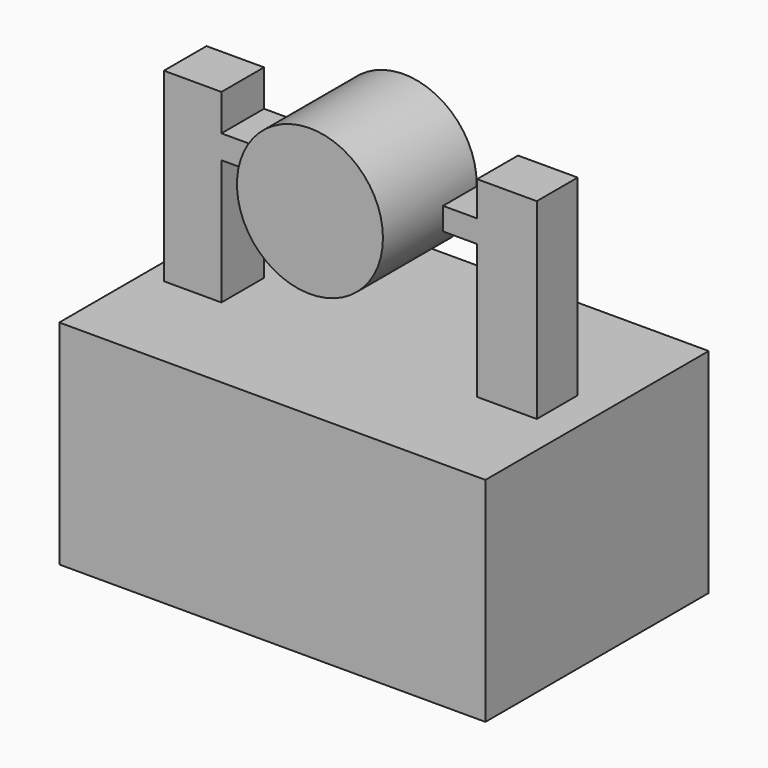
from build123d import *

# Parameters (mm, degrees)
F0_W      = 50.8
F0_H      = 25.4
F1_DEPTH  = 45.72
F2_W      = 6.8580005318
F2_H      = 6.3500022516
F3_DEPTH  = 22.098
F4_W      = 7.1120001376
F4_H      = 6.0960017145
F5_DEPTH  = 22.86
F6_W      = 6.0960017145
F6_H      = 2.6826560497
F7_DEPTH  = 4.064
F8_W      = 6.3500022516
F8_H      = 2.8180144727
F9_DEPTH  = 4.064
F10_R     = 8.7009115444
F11_DEPTH = 25.4
F12_DEPTH = 11.43
F13_DEPTH = 12.446


with BuildPart() as f1:
    # F0 (on Front) → F1 (new body)
    with BuildSketch(Plane.XZ):
        with Locations((25.4, 12.7)):
            Rectangle(F0_W, F0_H)
    extrude(amount=F1_DEPTH)

    # F2 (on face) → F3 (join)
    with BuildSketch(Plane.XY.offset(25.4)):
        with Locations((5.842000246, -17.5260012038)):
            Rectangle(F2_W, F2_H)
    extrude(amount=F3_DEPTH)

    # F4 (on face) → F5 (join)
    with BuildSketch(Plane.XY.offset(25.4)):
        with Locations((43.3070007712, -17.6530014724)):
            Rectangle(F4_W, F4_H)
    extrude(amount=F5_DEPTH)

    # F6 (on face) → F7 (join)
    with BuildSketch(Plane(origin=(39.7510007024, 0, 0), x_dir=(0, -1, 0), z_dir=(-1, 0, 0))):
        with Locations((17.6530014724, 42.791865766)):
            Rectangle(F6_W, F6_H)
    extrude(amount=F7_DEPTH)

    # F8 (on face) → F9 (join)
    with BuildSketch(Plane.YZ.offset(9.2710005119)):
        with Locations((-17.5260012038, 41.7410153896)):
            Rectangle(F8_W, F8_H)
    extrude(amount=F9_DEPTH)

    # F13 (cut): a face of the model
    f13_faces = [f1.faces().sort_by_distance(p)[0] for p in [
        (25.4, -45.72, 12.7),
    ]]
    extrude(f13_faces, amount=-F13_DEPTH, mode=Mode.SUBTRACT)


with BuildPart() as f11:
    # F10 (on Front) → F11 (new body)
    with BuildSketch(Plane.XZ):
        with Locations((23.5838033259, 41.5556021035)):
            Circle(F10_R)
    extrude(amount=F11_DEPTH)

    # F12 (cut): a face of the model
    f12_faces = [f11.faces().sort_by_distance(p)[0] for p in [
        (23.5838033259, 0, 41.5556021035),
    ]]
    extrude(f12_faces, amount=-F12_DEPTH, mode=Mode.SUBTRACT)


solid = Compound([f1.part, f11.part])
